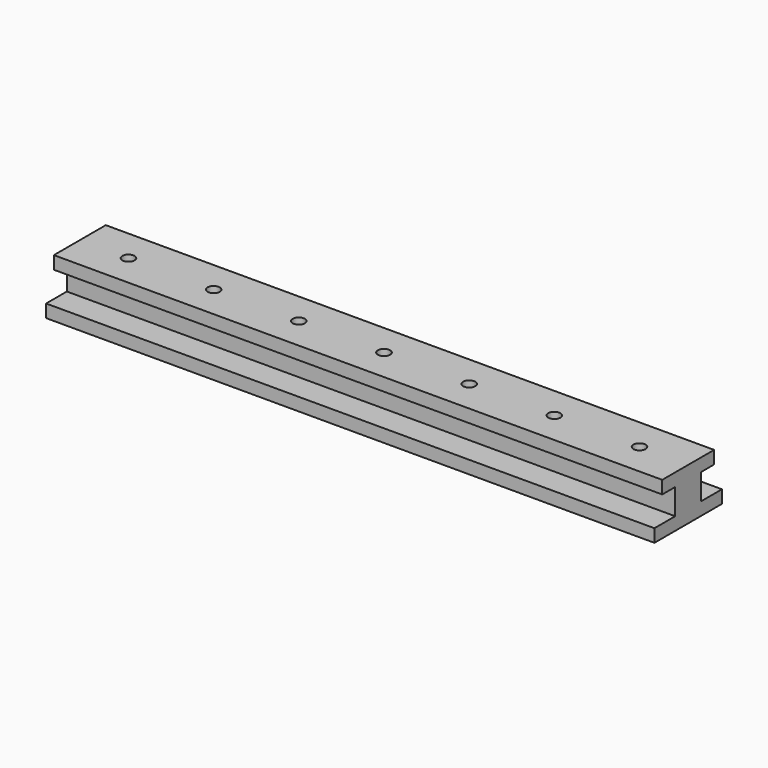
from build123d import *

# Parameters (mm, degrees)
F0_W          = 150
F0_H          = 8
F1_DEPTH      = 6.35
F3_W          = 150
F3_H          = 16
F4_DEPTH      = 3.175
F5_W          = 150
F5_H          = 20.8
F6_DEPTH      = 3.175
F2_R          = 1.5
F7_DEPTH      = 25
F7_DEPTH_BACK = 20.1


with BuildPart() as f1:
    # F0 (on Top) → F1 (new body)
    with BuildSketch(Plane.XY):
        with Locations((75, 4)):
            Rectangle(F0_W, F0_H)
    extrude(amount=F1_DEPTH)

    # F3 (on face) → F4 (join)
    with BuildSketch(Plane.XY.offset(6.35)):
        with Locations((75, 4)):
            Rectangle(F3_W, F3_H)
    extrude(amount=F4_DEPTH)

    # F5 (on face) → F6 (join)
    with BuildSketch(Plane(origin=(0, 0, 0), x_dir=(1, 0, 0), z_dir=(0, 0, -1))):
        with Locations((75, -4)):
            Rectangle(F5_W, F5_H)
    extrude(amount=F6_DEPTH)

    # F2 (on face) → F7 (cut, two sides)
    with BuildSketch(Plane.XY.offset(6.35)) as f7_sk:
        with Locations((12, 4)):
            Circle(F2_R)
        with Locations((33, 4)):
            Circle(F2_R)
        with Locations((54, 4)):
            Circle(F2_R)
        with Locations((75, 4)):
            Circle(F2_R)
        with Locations((96, 4)):
            Circle(F2_R)
        with Locations((117, 4)):
            Circle(F2_R)
        with Locations((138, 4)):
            Circle(F2_R)
    extrude(amount=-F7_DEPTH, mode=Mode.SUBTRACT)
    extrude(f7_sk.sketch, amount=F7_DEPTH_BACK, mode=Mode.SUBTRACT)


solid = f1.part
